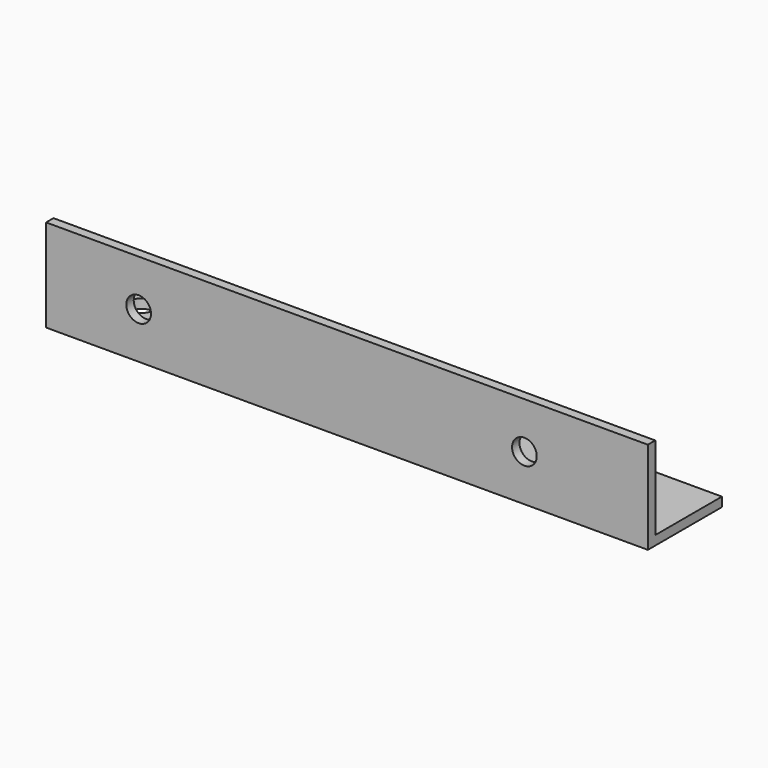
from build123d import *

# Parameters (mm, degrees)
F1_DEPTH = 195
F3_D     = 8
F5_D     = 8


with BuildPart() as f1:
    # F0 (on Right) → F1 (new body)
    with BuildSketch(Plane.YZ):
        Polygon((0, 30), (0, 0), (30, 0), (30, 3), (3, 3), (3, 30), align=None)
    extrude(amount=F1_DEPTH)

    # F3 (through all)
    with Locations(Plane(origin=(0, 0, 0), x_dir=(1, 0, 0), z_dir=(0, 0, -1))):
        with Locations((15, -20), (170, -20)):
            Hole(F3_D / 2)

    # F5 (through all)
    with Locations(Plane.XZ):
        with Locations((30, 15), (155, 15)):
            Hole(F5_D / 2)


solid = f1.part
